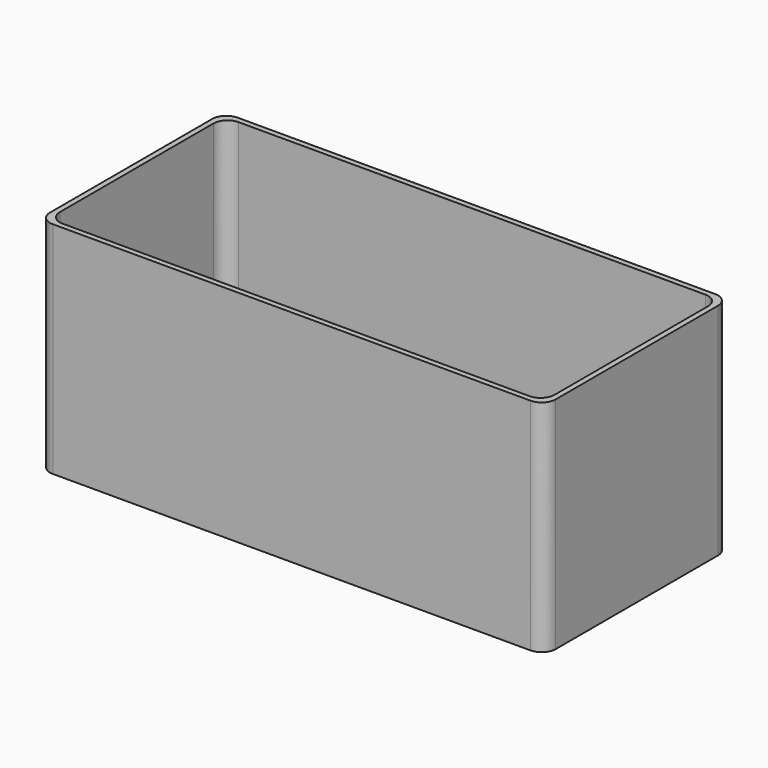
from build123d import *

# Parameters (mm, degrees)
F0_W     = 184
F0_H     = 84
F0_W_2   = 180
F0_H_2   = 80
F1_DEPTH = 80
F2_W     = 80
F2_H     = 2
F3_DEPTH = 90
F4_R     = 10
F5_DEPTH = 2
F6_R     = 5.08


with BuildPart() as f1:
    # F0 (on Top) → F1 (new body)
    with BuildSketch(Plane.XY):
        Rectangle(F0_W, F0_H)
        Rectangle(F0_W_2, F0_H_2, mode=Mode.SUBTRACT)
    extrude(amount=F1_DEPTH)

    # F4 (on face) → F5 (cut)
    with BuildSketch(Plane(origin=(-92, 0, 0), x_dir=(0, -1, 0), z_dir=(-1, 0, 0))):
        with Locations((22, 20)):
            Circle(F4_R)
    extrude(amount=-F5_DEPTH, mode=Mode.SUBTRACT)

    # F6
    f6_edges = [f1.edges().sort_by_distance(p)[0] for p in [
        (-92, -42, 40),
        (-90, -40, 40),
        (-92, 42, 40),
        (-90, 40, 40),
        (90, 40, 40),
        (92, 42, 40),
        (92, -42, 40),
        (90, -40, 40),
    ]]
    fillet(f6_edges, radius=F6_R)


with BuildPart() as f3:
    # F2 (on Right) → F3 (new body, symmetric)
    with BuildSketch(Plane.YZ):
        with Locations((0, 1)):
            Rectangle(F2_W, F2_H)
    extrude(amount=F3_DEPTH, both=True)


solid = Compound([f1.part, f3.part])
